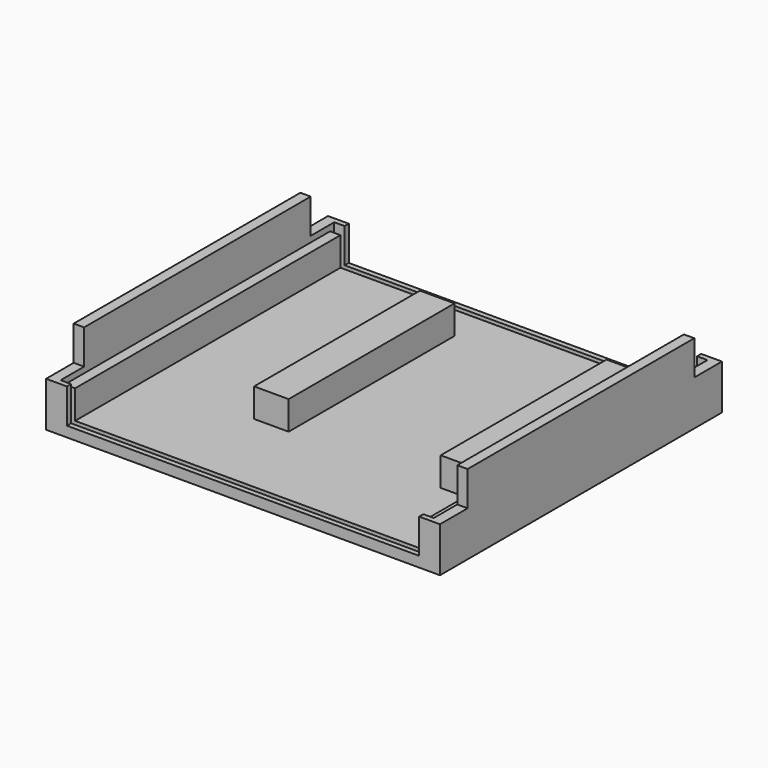
from build123d import *

# Parameters (mm, degrees)
SKETCH_W        = 114
SKETCH_H        = 102
PAD_DEPTH       = 3
SKETCH001_W     = 6
SKETCH001_H     = 102
PAD001_DEPTH    = 10
SKETCH002_W     = 3
SKETCH002_H     = 96
POCKET_DEPTH    = 1.7
SKETCH003_W     = 6
SKETCH003_H     = 102
PAD002_DEPTH    = 10
SKETCH004_W     = 3
SKETCH004_H     = 96
POCKET001_DEPTH = 1.7
SKETCH006_W     = 1.5
SKETCH006_H     = 10
POCKET002_DEPTH = 3
SKETCH007_W     = 1.5
SKETCH007_H     = 10
POCKET003_DEPTH = 3
SKETCH008_W     = 1.5
SKETCH008_H     = 10
POCKET004_DEPTH = 3
SKETCH009_W     = 1.5
SKETCH009_H     = 10
POCKET005_DEPTH = 3
SKETCH010_W     = 3
SKETCH010_H     = 82
PAD003_DEPTH    = 10
SKETCH011_W     = 3
SKETCH011_H     = 82
PAD004_DEPTH    = 10
SKETCH012_W     = 10
SKETCH012_H     = 60
PAD005_DEPTH    = 8.3
SKETCH013_W     = 10
SKETCH013_H     = 60
PAD006_DEPTH    = 8.3
SKETCH014_W     = 102
SKETCH014_H     = 1.5
POCKET006_DEPTH = 1.5
SKETCH015_W     = 102
SKETCH015_H     = 1.5
POCKET007_DEPTH = 1.5
SKETCH016_W     = 3
SKETCH016_H     = 1.5
POCKET008_DEPTH = 1.5
SKETCH017_W     = 3
SKETCH017_H     = 1.5
POCKET009_DEPTH = 1.5
SKETCH018_W     = 3
SKETCH018_H     = 1.5
POCKET010_DEPTH = 1.5
SKETCH019_W     = 3
SKETCH019_H     = 1.5
POCKET011_DEPTH = 1.5


with BuildPart() as part:
    # Sketch → Pad (new body)
    with BuildSketch(Plane.XY):
        with Locations((57, -51)):
            Rectangle(SKETCH_W, SKETCH_H)
    extrude(amount=PAD_DEPTH)

    # Sketch001 (on Face6 of Pad) → Pad001 (join)
    with BuildSketch(Plane.XY.offset(3)):
        with Locations((3, -51)):
            Rectangle(SKETCH001_W, SKETCH001_H)
    extrude(amount=PAD001_DEPTH)

    # Sketch002 (on Face10 of Pad001) → Pocket (cut)
    with BuildSketch(Plane.XY.offset(13)):
        with Locations((4.5, -51)):
            Rectangle(SKETCH002_W, SKETCH002_H)
    extrude(amount=-POCKET_DEPTH, mode=Mode.SUBTRACT)

    # Sketch003 (on Face6 of Pocket) → Pad002 (join)
    with BuildSketch(Plane.XY.offset(3)):
        with Locations((111, -51)):
            Rectangle(SKETCH003_W, SKETCH003_H)
    extrude(amount=PAD002_DEPTH)

    # Sketch004 (on Face14 of Pad002) → Pocket001 (cut)
    with BuildSketch(Plane.XY.offset(13)):
        with Locations((109.5, -51)):
            Rectangle(SKETCH004_W, SKETCH004_H)
    extrude(amount=-POCKET001_DEPTH, mode=Mode.SUBTRACT)

    # Sketch006 (on Face11 of Pocket001) → Pocket002 (cut)
    with BuildSketch(Plane.YZ.offset(6)):
        with Locations((-2.25, 8)):
            Rectangle(SKETCH006_W, SKETCH006_H)
    extrude(amount=-POCKET002_DEPTH, mode=Mode.SUBTRACT)

    # Sketch007 (on Face15 of Pocket002) → Pocket003 (cut)
    with BuildSketch(Plane.YZ.offset(6)):
        with Locations((-99.75, 8)):
            Rectangle(SKETCH007_W, SKETCH007_H)
    extrude(amount=-POCKET003_DEPTH, mode=Mode.SUBTRACT)

    # Sketch008 (on Face13 of Pocket003) → Pocket004 (cut)
    with BuildSketch(Plane(origin=(108, 0, 0), x_dir=(0, -1, 0), z_dir=(-1, 0, 0))):
        with Locations((2.25, 8)):
            Rectangle(SKETCH008_W, SKETCH008_H)
    extrude(amount=-POCKET004_DEPTH, mode=Mode.SUBTRACT)

    # Sketch009 (on Face15 of Pocket004) → Pocket005 (cut)
    with BuildSketch(Plane(origin=(108, 0, 0), x_dir=(0, -1, 0), z_dir=(-1, 0, 0))):
        with Locations((99.75, 8)):
            Rectangle(SKETCH009_W, SKETCH009_H)
    extrude(amount=-POCKET005_DEPTH, mode=Mode.SUBTRACT)

    # Sketch010 (on Face12 of Pocket005) → Pad003 (join)
    with BuildSketch(Plane.XY.offset(13)):
        with Locations((1.5, -51)):
            Rectangle(SKETCH010_W, SKETCH010_H)
    extrude(amount=PAD003_DEPTH)

    # Sketch011 (on Face22 of Pad003) → Pad004 (join)
    with BuildSketch(Plane.XY.offset(13)):
        with Locations((112.5, -51)):
            Rectangle(SKETCH011_W, SKETCH011_H)
    extrude(amount=PAD004_DEPTH)

    # Sketch012 (on Face6 of Pad004) → Pad005 (join)
    with BuildSketch(Plane.XY.offset(3)):
        with Locations((96, -43)):
            Rectangle(SKETCH012_W, SKETCH012_H)
    extrude(amount=PAD005_DEPTH)

    # Sketch013 (on Face6 of Pad005) → Pad006 (join)
    with BuildSketch(Plane.XY.offset(3)):
        with Locations((42, -43)):
            Rectangle(SKETCH013_W, SKETCH013_H)
    extrude(amount=PAD006_DEPTH)

    # Sketch014 (on Face6 of Pad006) → Pocket006 (cut)
    with BuildSketch(Plane.XY.offset(3)):
        with Locations((57, -99.75)):
            Rectangle(SKETCH014_W, SKETCH014_H)
    extrude(amount=-POCKET006_DEPTH, mode=Mode.SUBTRACT)

    # Sketch015 (on Face6 of Pocket006) → Pocket007 (cut)
    with BuildSketch(Plane.XY.offset(3)):
        with Locations((57, -2.25)):
            Rectangle(SKETCH015_W, SKETCH015_H)
    extrude(amount=-POCKET007_DEPTH, mode=Mode.SUBTRACT)

    # Sketch016 (on Face57 of Pocket007) → Pocket008 (cut)
    with BuildSketch(Plane.XY.offset(3)):
        with Locations((4.5, -99.75)):
            Rectangle(SKETCH016_W, SKETCH016_H)
    extrude(amount=-POCKET008_DEPTH, mode=Mode.SUBTRACT)

    # Sketch017 (on Face45 of Pocket008) → Pocket009 (cut)
    with BuildSketch(Plane.XY.offset(3)):
        with Locations((4.5, -2.25)):
            Rectangle(SKETCH017_W, SKETCH017_H)
    extrude(amount=-POCKET009_DEPTH, mode=Mode.SUBTRACT)

    # Sketch018 (on Face60 of Pocket009) → Pocket010 (cut)
    with BuildSketch(Plane.XY.offset(3)):
        with Locations((109.5, -99.75)):
            Rectangle(SKETCH018_W, SKETCH018_H)
    extrude(amount=-POCKET010_DEPTH, mode=Mode.SUBTRACT)

    # Sketch019 (on Face49 of Pocket010) → Pocket011 (cut)
    with BuildSketch(Plane.XY.offset(3)):
        with Locations((109.5, -2.25)):
            Rectangle(SKETCH019_W, SKETCH019_H)
    extrude(amount=-POCKET011_DEPTH, mode=Mode.SUBTRACT)


solid = part.part
